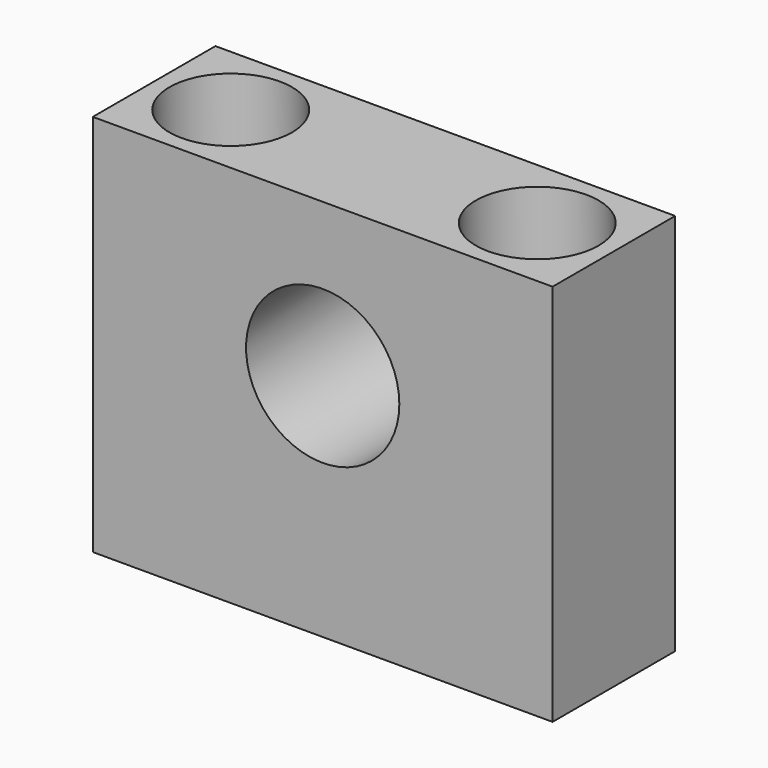
from build123d import *

# Parameters (mm, degrees)
F0_W     = 30
F0_H     = 10
F0_R     = 2.5
F1_DEPTH = 25
F2_R     = 4
F3_DEPTH = 5
F4_R     = 5
F5_DEPTH = 25


with BuildPart() as f1:
    # F0 (on Top) → F1 (new body)
    with BuildSketch(Plane.XY):
        with Locations((15, 5)):
            Rectangle(F0_W, F0_H)
        with Locations((5, 5)):
            Circle(F0_R, mode=Mode.SUBTRACT)
        with Locations((25, 5)):
            Circle(F0_R, mode=Mode.SUBTRACT)
    extrude(amount=F1_DEPTH)

    # F2 (on face) → F3 (cut)
    with BuildSketch(Plane.XY.offset(25)):
        with Locations((5, 5)):
            Circle(F2_R)
        with Locations((25, 5)):
            Circle(F2_R)
    extrude(amount=-F3_DEPTH, mode=Mode.SUBTRACT)

    # F4 (on face) → F5 (cut)
    with BuildSketch(Plane.XZ):
        with Locations((15, 15)):
            Circle(F4_R)
    extrude(amount=-F5_DEPTH, mode=Mode.SUBTRACT)


solid = f1.part
